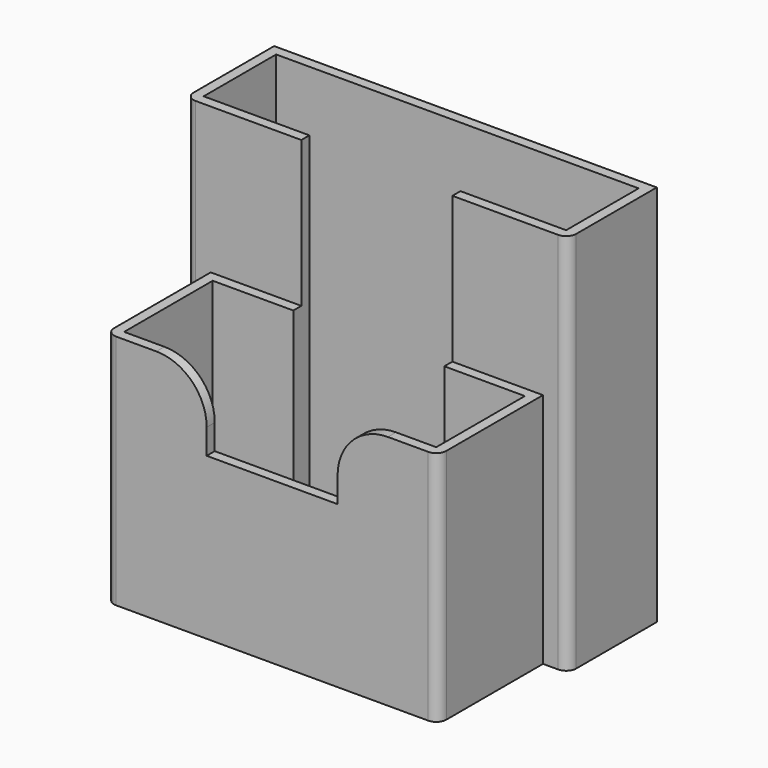
from build123d import *

# Parameters (mm, degrees)
SKETCH_W        = 76
SKETCH_H        = 22
PAD_DEPTH       = 76
SKETCH001_W     = 66
SKETCH001_H     = 26
PAD001_DEPTH    = 47
SKETCH002_W     = 62
SKETCH002_H     = 22
POCKET_DEPTH    = 45
SKETCH003_W     = 72
SKETCH003_H     = 18
POCKET001_DEPTH = 74
SKETCH004_W     = 30
SKETCH004_H     = 2
POCKET002_DEPTH = 45
SKETCH005_W     = 30
SKETCH005_H     = 2
POCKET003_DEPTH = 74
SKETCH006_W     = 26
SKETCH006_H     = 2
POCKET004_DEPTH = 15
FILLET_R        = 10
FILLET001_R     = 10
FILLET002_R     = 2
FILLET003_R     = 2
FILLET004_R     = 2
FILLET005_R     = 2


with BuildPart() as part:
    # Sketch → Pad (new body)
    with BuildSketch(Plane.XY):
        with Locations((38, 11)):
            Rectangle(SKETCH_W, SKETCH_H)
    extrude(amount=PAD_DEPTH)

    # Sketch001 → Pad001 (join)
    with BuildSketch(Plane.XY):
        with Locations((38, -13)):
            Rectangle(SKETCH001_W, SKETCH001_H)
    extrude(amount=PAD001_DEPTH)

    # Sketch002 (on Face4 of Pad001) → Pocket (cut)
    with BuildSketch(Plane.XY.offset(47)):
        with Locations((38, -13)):
            Rectangle(SKETCH002_W, SKETCH002_H)
    extrude(amount=-POCKET_DEPTH, mode=Mode.SUBTRACT)

    # Sketch003 (on Face7 of Pocket) → Pocket001 (cut)
    with BuildSketch(Plane.XY.offset(76)):
        with Locations((38, 11)):
            Rectangle(SKETCH003_W, SKETCH003_H)
    extrude(amount=-POCKET001_DEPTH, mode=Mode.SUBTRACT)

    # Sketch004 (on Face4 of Pocket001) → Pocket002 (cut)
    with BuildSketch(Plane.XY.offset(47)):
        with Locations((38, -1)):
            Rectangle(SKETCH004_W, SKETCH004_H)
    extrude(amount=-POCKET002_DEPTH, mode=Mode.SUBTRACT)

    # Sketch005 (on Face8 of Pocket002) → Pocket003 (cut)
    with BuildSketch(Plane.XY.offset(76)):
        with Locations((38, 1)):
            Rectangle(SKETCH005_W, SKETCH005_H)
    extrude(amount=-POCKET003_DEPTH, mode=Mode.SUBTRACT)

    # Sketch006 (on Face4 of Pocket003) → Pocket004 (cut)
    with BuildSketch(Plane.XY.offset(47)):
        with Locations((38, -25)):
            Rectangle(SKETCH006_W, SKETCH006_H)
    extrude(amount=-POCKET004_DEPTH, mode=Mode.SUBTRACT)

    # Fillet
    fillet_edges = [part.edges().sort_by_distance(p)[0] for p in [
        (51, -25, 47),
    ]]
    fillet(fillet_edges, radius=FILLET_R)

    # Fillet001
    fillet001_edges = [part.edges().sort_by_distance(p)[0] for p in [
        (25, -25, 47),
    ]]
    fillet(fillet001_edges, radius=FILLET001_R)

    # Fillet002
    fillet002_edges = [part.edges().sort_by_distance(p)[0] for p in [
        (5, -26, 23.5),
    ]]
    fillet(fillet002_edges, radius=FILLET002_R)

    # Fillet003
    fillet003_edges = [part.edges().sort_by_distance(p)[0] for p in [
        (71, -26, 23.5),
    ]]
    fillet(fillet003_edges, radius=FILLET003_R)

    # Fillet004
    fillet004_edges = [part.edges().sort_by_distance(p)[0] for p in [
        (76, 0, 38),
    ]]
    fillet(fillet004_edges, radius=FILLET004_R)

    # Fillet005
    fillet005_edges = [part.edges().sort_by_distance(p)[0] for p in [
        (0, 0, 38),
    ]]
    fillet(fillet005_edges, radius=FILLET005_R)


solid = part.part
